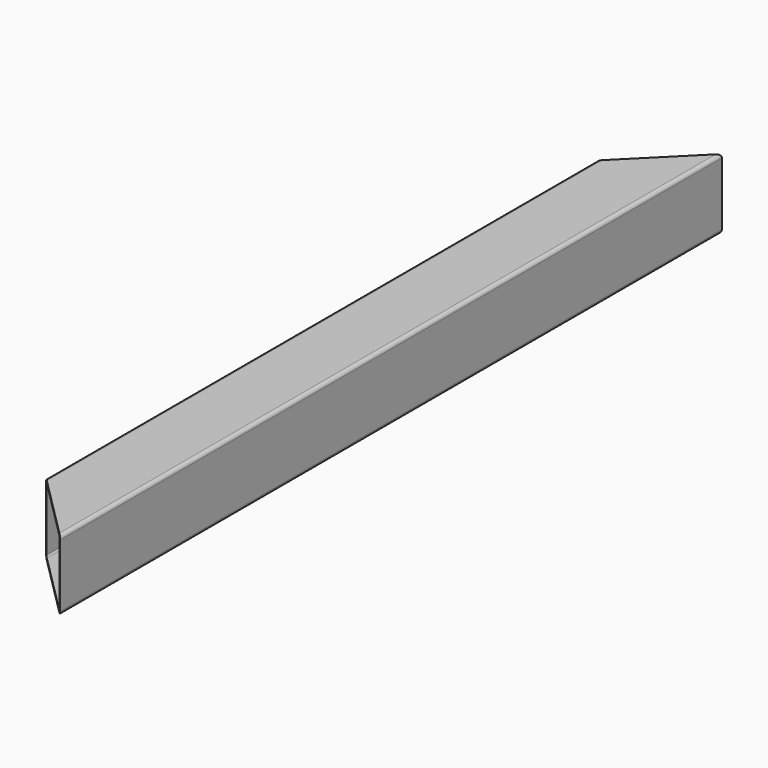
from build123d import *

# Parameters (mm, degrees)
F1_DEPTH = 1180
F4_DEPTH = 100.001
F5_DEPTH = 100.001


with BuildPart() as f1:
    # F0 (on Front) → F1 (new body)
    with BuildSketch(Plane.XZ):
        with BuildLine():
            ThreePointArc((50, 45), (48.5355339059, 48.5355339059), (45, 50))
            Line((45, 50), (-45, 50))
            ThreePointArc((-45, 50), (-48.5355339059, 48.5355339059), (-50, 45))
            Line((-50, 45), (-50, -45))
            ThreePointArc((-50, -45), (-48.5355339059, -48.5355339059), (-45, -50))
            Line((-45, -50), (45, -50))
            ThreePointArc((45, -50), (48.5355339059, -48.5355339059), (50, -45))
            Line((50, -45), (50, 45))
        make_face()
        with BuildLine():
            ThreePointArc((-47, 45), (-46.4142135624, 46.4142135624), (-45, 47))
            Line((-45, 47), (45, 47))
            ThreePointArc((45, 47), (46.4142135624, 46.4142135624), (47, 45))
            Line((47, 45), (47, -45))
            ThreePointArc((47, -45), (46.4142135624, -46.4142135624), (45, -47))
            Line((45, -47), (-45, -47))
            ThreePointArc((-45, -47), (-46.4142135624, -46.4142135624), (-47, -45))
            Line((-47, -45), (-47, 45))
        make_face(mode=Mode.SUBTRACT)
    extrude(amount=-F1_DEPTH)

    # F3 (on offset) → F4 (cut, through all)
    with BuildSketch(Plane.XY.offset(50)):
        Polygon((-50, 100), (-50, 0), (50, 0), align=None)
    extrude(amount=-F4_DEPTH, mode=Mode.SUBTRACT)

    # F3 (on offset) → F5 (cut, through all)
    with BuildSketch(Plane.XY.offset(50)):
        Polygon((-50, 100), (-50, 0), (50, 0), align=None)
        Polygon((50, 1180), (-50, 1180), (-50, 1080), align=None)
    extrude(amount=-F5_DEPTH, mode=Mode.SUBTRACT)


solid = f1.part
